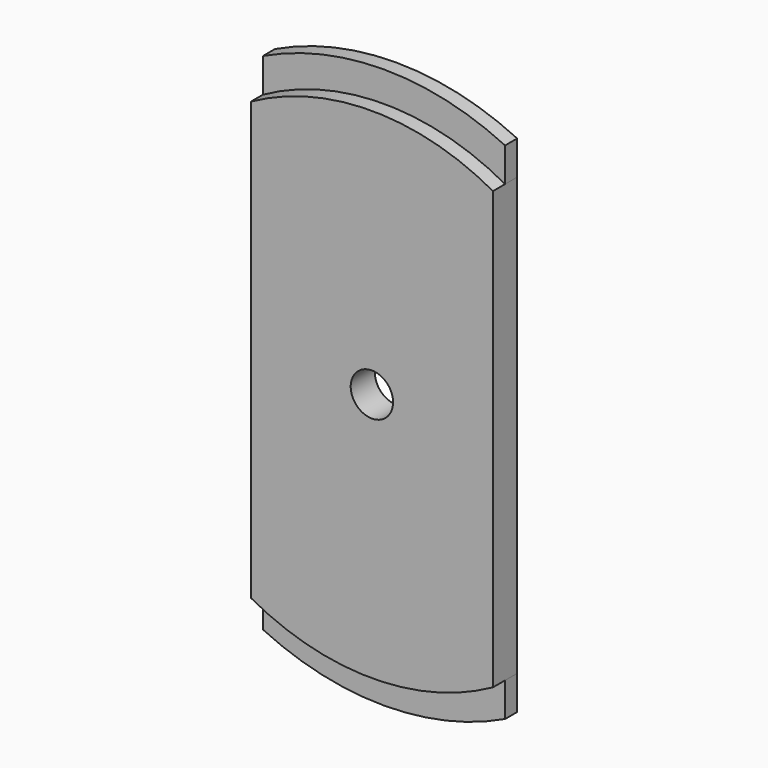
from build123d import *

# Parameters (mm, degrees)
F1_DEPTH = 5
F0_R     = 7
F2_DEPTH = 10


with BuildPart() as f1:
    # F0 (on Front) → F1 (new body)
    with BuildSketch(Plane.XZ):
        with BuildLine():
            Line((40, 72.1543484483), (40, 83.4041365881))
            ThreePointArc((40, 83.4041365881), (0, 92.5), (-40, 83.4041365881))
            Line((-40, 83.4041365881), (-40, 72.1543484483))
            ThreePointArc((-40, 72.1543484483), (0, 82.5), (40, 72.1543484483))
        make_face()
    extrude(amount=F1_DEPTH)


with BuildPart() as f1b:
    # F0 (on Front) → F1, piece 2 (new body)
    with BuildSketch(Plane.XZ):
        with BuildLine():
            ThreePointArc((-40, -83.4041365881), (0, -92.5), (40, -83.4041365881))
            Line((40, -83.4041365881), (40, -72.1543484483))
            ThreePointArc((40, -72.1543484483), (0, -82.5), (-40, -72.1543484483))
            Line((-40, -72.1543484483), (-40, -83.4041365881))
        make_face()
    extrude(amount=F1_DEPTH)


with BuildPart() as f2:
    # F0 (on Front) → F2 (new body)
    with BuildSketch(Plane.XZ):
        with BuildLine():
            Line((40, -72.1543484483), (40, 72.1543484483))
            ThreePointArc((40, 72.1543484483), (0, 82.5), (-40, 72.1543484483))
            Line((-40, 72.1543484483), (-40, -72.1543484483))
            ThreePointArc((-40, -72.1543484483), (0, -82.5), (40, -72.1543484483))
        make_face()
        Circle(F0_R, mode=Mode.SUBTRACT)
    extrude(amount=F2_DEPTH)


solid = Compound([f1.part, f1b.part, f2.part])
